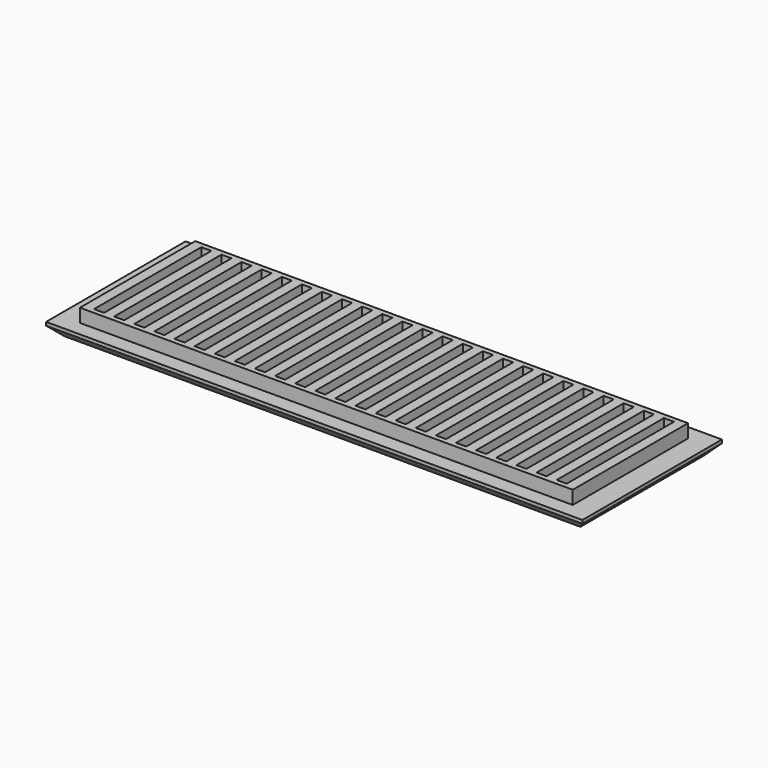
from build123d import *

# Parameters (mm, degrees)
SKETCH_W     = 80
SKETCH_H     = 26
PAD_DEPTH    = 2
SKETCH001_W  = 73.5
SKETCH001_H  = 21.5
PAD001_DEPTH = 2
SKETCH002_W  = 1.5
SKETCH002_H  = 20
POCKET_DEPTH = 5
CHAMFER_SIZE = 1.5


with BuildPart() as part:
    # Sketch → Pad (new body)
    with BuildSketch(Plane.XY):
        Rectangle(SKETCH_W, SKETCH_H)
    extrude(amount=PAD_DEPTH)

    # Sketch001 (on Face6 of Pad) → Pad001 (join)
    with BuildSketch(Plane.XY.offset(2)):
        Rectangle(SKETCH001_W, SKETCH001_H)
    extrude(amount=PAD001_DEPTH)

    # Sketch002 (on Face11 of Pad001) → Pocket (cut)
    with BuildSketch(Plane.XY.offset(4)):
        with Locations((1.5, 0)):
            Rectangle(SKETCH002_W, SKETCH002_H)
        with Locations((4.5, 0)):
            Rectangle(SKETCH002_W, SKETCH002_H)
        with Locations((7.5, 0)):
            Rectangle(SKETCH002_W, SKETCH002_H)
        with Locations((10.5, 0)):
            Rectangle(SKETCH002_W, SKETCH002_H)
        with Locations((13.5, 0)):
            Rectangle(SKETCH002_W, SKETCH002_H)
        with Locations((16.5, 0)):
            Rectangle(SKETCH002_W, SKETCH002_H)
        with Locations((19.5, 0)):
            Rectangle(SKETCH002_W, SKETCH002_H)
        with Locations((22.5, 0)):
            Rectangle(SKETCH002_W, SKETCH002_H)
        with Locations((25.5, 0)):
            Rectangle(SKETCH002_W, SKETCH002_H)
        with Locations((28.5, 0)):
            Rectangle(SKETCH002_W, SKETCH002_H)
        with Locations((31.5, 0)):
            Rectangle(SKETCH002_W, SKETCH002_H)
        with Locations((34.5, 0)):
            Rectangle(SKETCH002_W, SKETCH002_H)
        with Locations((-1.5, 0)):
            Rectangle(SKETCH002_W, SKETCH002_H)
        with Locations((-4.5, 0)):
            Rectangle(SKETCH002_W, SKETCH002_H)
        with Locations((-7.5, 0)):
            Rectangle(SKETCH002_W, SKETCH002_H)
        with Locations((-10.5, 0)):
            Rectangle(SKETCH002_W, SKETCH002_H)
        with Locations((-13.5, 0)):
            Rectangle(SKETCH002_W, SKETCH002_H)
        with Locations((-16.5, 0)):
            Rectangle(SKETCH002_W, SKETCH002_H)
        with Locations((-19.5, 0)):
            Rectangle(SKETCH002_W, SKETCH002_H)
        with Locations((-22.5, 0)):
            Rectangle(SKETCH002_W, SKETCH002_H)
        with Locations((-25.5, 0)):
            Rectangle(SKETCH002_W, SKETCH002_H)
        with Locations((-28.5, 0)):
            Rectangle(SKETCH002_W, SKETCH002_H)
        with Locations((-31.5, 0)):
            Rectangle(SKETCH002_W, SKETCH002_H)
        with Locations((-34.5, 0)):
            Rectangle(SKETCH002_W, SKETCH002_H)
    extrude(amount=-POCKET_DEPTH, mode=Mode.SUBTRACT)

    # Chamfer
    chamfer_edges = [part.edges().sort_by_distance(p)[0] for p in [
        (0, -13, 0),
        (40, 0, 0),
        (0, 13, 0),
        (-40, 0, 0),
    ]]
    chamfer(chamfer_edges, length=CHAMFER_SIZE)


solid = part.part
